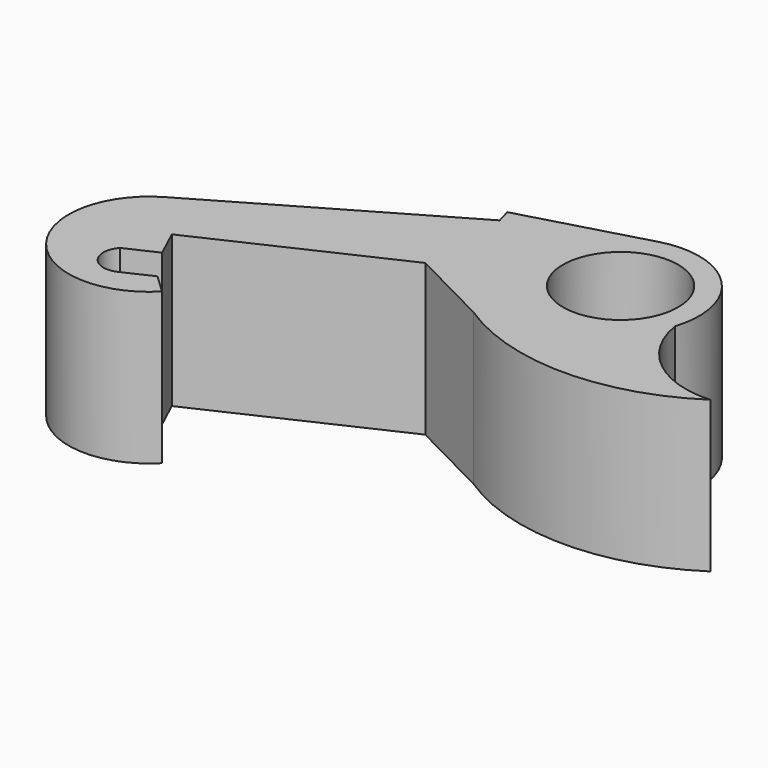
from build123d import *

# Parameters (mm, degrees)
F0_R     = 7.62
F1_DEPTH = 20


with BuildPart() as f1:
    # F0 (on Top) → F1 (new body)
    with BuildSketch(Plane.XY):
        with BuildLine():
            Line((9.861588, 30.477575), (-20.42187, 12.930149))
            ThreePointArc((-20.42187, 12.930149), (-23.490521, -2.846356), (-7.443416, -3.743659))
            Line((-7.443416, -3.743659), (-9.914491, -1.38106))
            Line((-9.914491, -1.38106), (-13.743243, -3.161094))
            ThreePointArc((-13.743243, -3.161094), (-17.101431, -2.297876), (-16.912972, 1.164357))
            Line((-16.912972, 1.164357), (-12.854469, 3.051204))
            Line((-12.854469, 3.051204), (-14.632017, 6.87461))
            Line((-14.632017, 6.87461), (9.813345, 18.239558))
            Line((9.813345, 18.239558), (20.609021, 12.735577))
            ThreePointArc((20.609021, 12.735577), (36.270585, 8.040741), (51.932149, 12.735577))
            ThreePointArc((51.932149, 12.735577), (43.323191, 15.485604), (38.809029, 23.31498))
            ThreePointArc((38.809029, 23.31498), (36.343499, 34.075966), (25.693756, 36.984683))
            Line((25.693756, 36.984683), (9.322636, 32.403589))
            Line((9.322636, 32.403589), (9.861588, 30.477575))
        make_face()
        with Locations((28.785767, 26.824768)):
            Circle(F0_R, mode=Mode.SUBTRACT)
    extrude(amount=F1_DEPTH)


solid = f1.part
